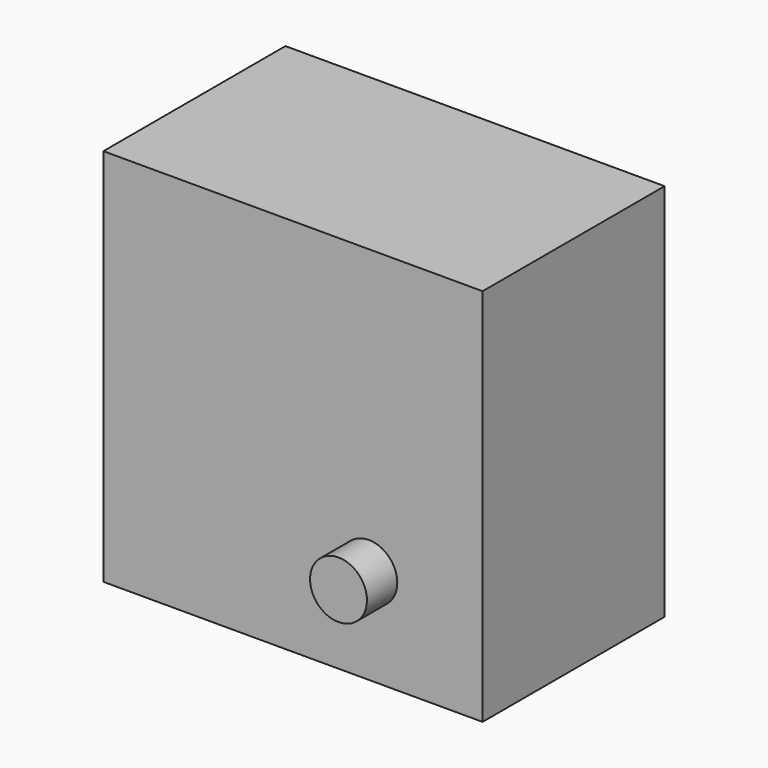
from build123d import *

# Parameters (mm, degrees)
F0_W     = 254
F0_H     = 254
F1_DEPTH = 152.4
F2_R     = 19.05
F3_DEPTH = 25.4


with BuildPart() as f1:
    # F0 (on Front) → F1 (new body)
    with BuildSketch(Plane.XZ):
        Rectangle(F0_W, F0_H)
    extrude(amount=F1_DEPTH)


with BuildPart() as f3:
    # F2 (on face) → F3 (new body)
    with BuildSketch(Plane.XZ.offset(152.4)):
        with Locations((50.8, -63.5)):
            Circle(F2_R)
    extrude(amount=F3_DEPTH)


solid = Compound([f1.part, f3.part])
